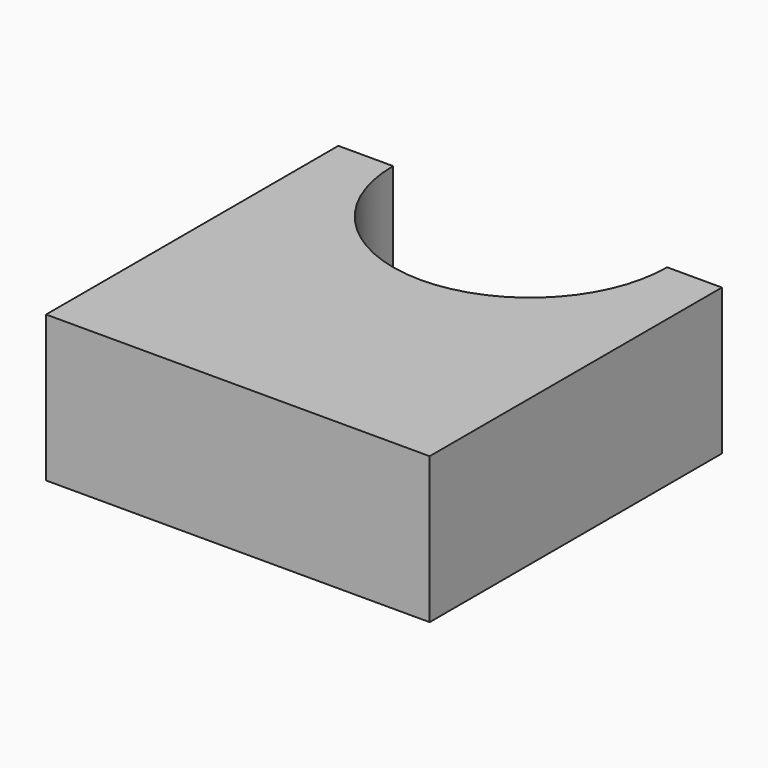
from build123d import *

# Parameters (mm, degrees)
F0_W     = 21
F0_H     = 20
F1_DEPTH = 4
F3_D     = 15


with BuildPart() as f1:
    # F0 (on Top) → F1 (new body, symmetric)
    with BuildSketch(Plane.XY):
        with Locations((-5.307575, 10)):
            Rectangle(F0_W, F0_H)
    extrude(amount=F1_DEPTH, both=True)

    # F3 (through all)
    with Locations(Plane.XY.offset(4)):
        with Locations((-5.307575, 20)):
            Hole(F3_D / 2)


solid = f1.part
